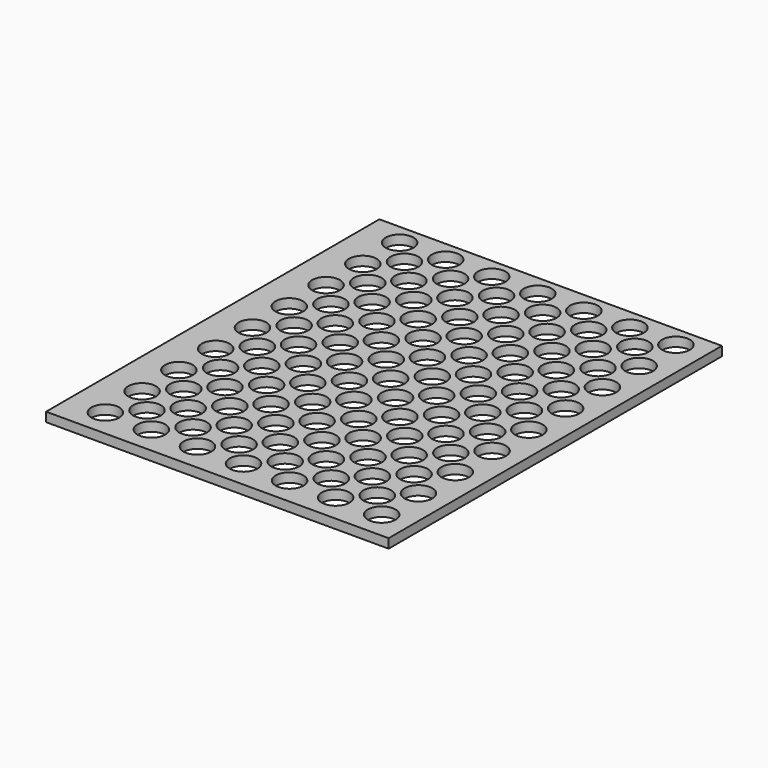
from build123d import *

# Parameters (mm, degrees)
CYLINDER009_R     = 1.5
CYLINDER009_DEPTH = 1
ARRAY006_X_COUNT  = 6
ARRAY006_X_PITCH  = 4.975
ARRAY006_Y_COUNT  = 8
ARRAY006_Y_PITCH  = 4.9666
CYLINDER008_R     = 1.5
CYLINDER008_DEPTH = 1
ARRAY005_X_COUNT  = 7
ARRAY005_X_PITCH  = 4.975
ARRAY005_Y_COUNT  = 9
ARRAY005_Y_PITCH  = 4.9666
BOX014_W          = 37
BOX014_H          = 45
BOX014_DEPTH      = 1


with BuildPart() as grill_holes003:
    # Cylinder009 → Cylinder009 (new body)
    with BuildSketch(Plane(origin=(-27.5, -22.5, 0), x_dir=(1, 0, 0), z_dir=(0, 0, 1))):
        Circle(CYLINDER009_R)
    extrude(amount=CYLINDER009_DEPTH)

    # Array006 X: GRILL_holes003 ×6


with BuildPart() as grill_holes003_1:
    add(grill_holes003.part)
    with Locations(*[(i * ARRAY006_X_PITCH, 0, 0) for i in range(1, ARRAY006_X_COUNT)]):
        add(grill_holes003.part)

    # Array006 Y: GRILL_holes003 ×8


with BuildPart() as grill_holes003_2:
    add(grill_holes003_1.part)
    with Locations(*[(0, i * ARRAY006_Y_PITCH, 0) for i in range(1, ARRAY006_Y_COUNT)]):
        add(grill_holes003_1.part)


with BuildPart() as grill_holes002:
    # Cylinder008 → Cylinder008 (new body)
    with BuildSketch(Plane(origin=(-30, -25, 0), x_dir=(1, 0, 0), z_dir=(0, 0, 1))):
        Circle(CYLINDER008_R)
    extrude(amount=CYLINDER008_DEPTH)

    # Array005 X: GRILL_holes002 ×7


with BuildPart() as grill_holes002_1:
    add(grill_holes002.part)
    with Locations(*[(i * ARRAY005_X_PITCH, 0, 0) for i in range(1, ARRAY005_X_COUNT)]):
        add(grill_holes002.part)

    # Array005 Y: GRILL_holes002 ×9


with BuildPart() as grill_holes002_2:
    add(grill_holes002_1.part)
    with Locations(*[(0, i * ARRAY005_Y_PITCH, 0) for i in range(1, ARRAY005_Y_COUNT)]):
        add(grill_holes002_1.part)


with BuildPart() as grill001:
    # Box014 → Box014 (new body)
    with BuildSketch(Plane(origin=(-34, -28, 0), x_dir=(1, 0, 0), z_dir=(0, 0, 1))):
        with Locations((18.5, 22.5)):
            Rectangle(BOX014_W, BOX014_H)
    extrude(amount=BOX014_DEPTH)

    # Cut012: cut GRILL_holes002
    add(grill_holes002_2.part, mode=Mode.SUBTRACT)

    # Cut013: cut GRILL_holes003
    add(grill_holes003_2.part, mode=Mode.SUBTRACT)


with BuildPart() as grill001_1:
    # Cut013 placement: moved
    add(grill001.part.moved(Location((34.55, -4.3, -54.3))))


solid = grill001_1.part
